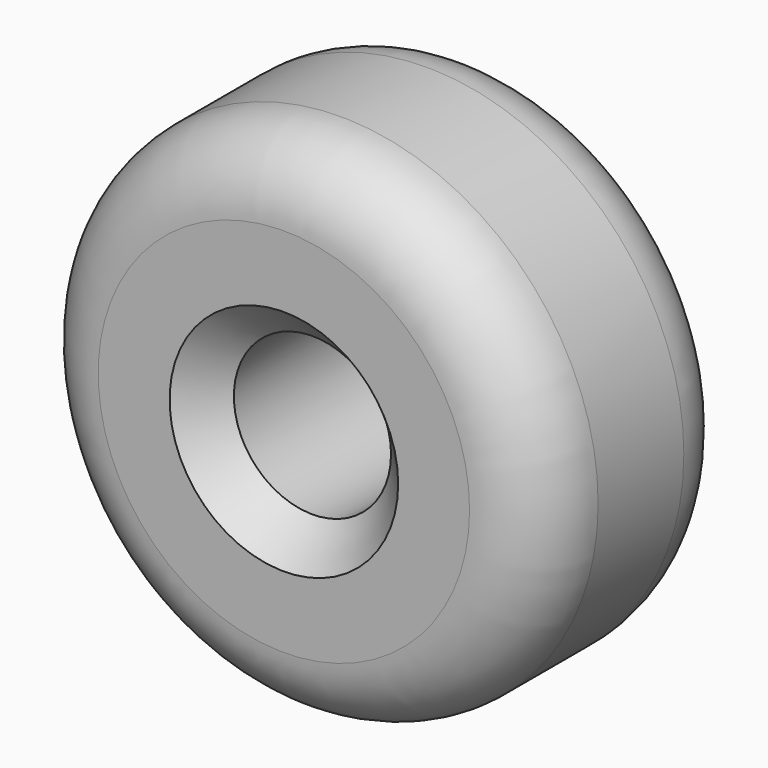
from build123d import *

# Parameters (mm, degrees)
F0_R     = 36
F0_R_2   = 11
F1_DEPTH = 17.5
F2_R     = 10
F3_SIZE  = 5


with BuildPart() as f1:
    # F0 (on Front) → F1 (new body, symmetric)
    with BuildSketch(Plane.XZ):
        Circle(F0_R)
        Circle(F0_R_2, mode=Mode.SUBTRACT)
    extrude(amount=F1_DEPTH, both=True)

    # F2
    f2_edges = [f1.edges().sort_by_distance(p)[0] for p in [
        (-36, -17.5, 0),
        (-36, 17.5, 0),
    ]]
    fillet(f2_edges, radius=F2_R)

    # F3
    f3_edges = [f1.edges().sort_by_distance(p)[0] for p in [
        (36, 0, 0),
        (-36, 7.5, 0),
        (-36, -7.5, 0),
        (-11, -17.5, 0),
        (-11, 17.5, 0),
    ]]
    chamfer(f3_edges, length=F3_SIZE)


solid = f1.part
